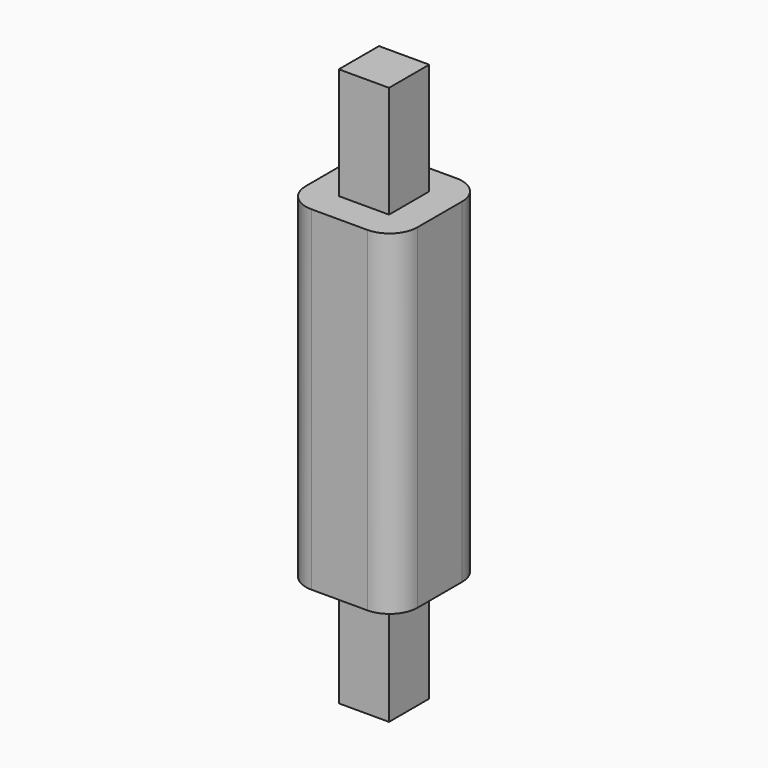
from build123d import *

# Parameters (mm, degrees)
F1_DEPTH = 25.4
F3_DEPTH = 25.4
F5_R     = 6.35


with BuildPart() as f1:
    # F0 (on Front) → F1 (new body)
    with BuildSketch(Plane.XZ):
        Polygon((-12.7, 0), (0, 0), (12.7, 0), (12.7, 38.1), (0, 38.1), (-12.7, 38.1), align=None)
    extrude(amount=F1_DEPTH)

    # F2 (on face) → F3 (join)
    with BuildSketch(Plane.XY.offset(38.1)):
        Polygon((5.715, -6.985), (0, -6.985), (0, -12.7), (0, -18.415), (5.715, -18.415), align=None)
        Polygon((0, -12.7), (0, -6.985), (-5.715, -6.985), (-5.715, -18.415), (0, -18.415), align=None)
    extrude(amount=F3_DEPTH)

    # F4: F1 across plane


with BuildPart() as f1_1:
    add(f1.part)
    add(f1.part.mirror(Plane.XY))

    # F5
    f5_edges = [f1_1.edges().sort_by_distance(p)[0] for p in [
        (12.7, 0, 0),
        (12.7, -25.4, 0),
        (-12.7, 0, 0),
        (-12.7, -25.4, 0),
    ]]
    fillet(f5_edges, radius=F5_R)


solid = f1_1.part
